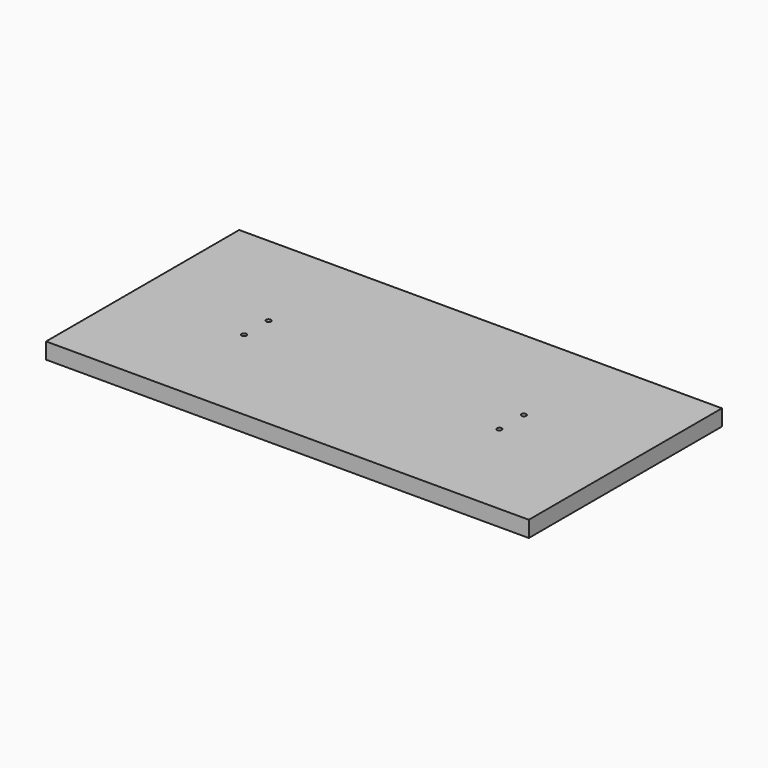
from build123d import *

# Parameters (mm, degrees)
SKETCH_W     = 300
SKETCH_H     = 150
PAD_DEPTH    = 10
SKETCH001_R  = 1.5
POCKET_DEPTH = 100


with BuildPart() as part:
    # Sketch → Pad (new body)
    with BuildSketch(Plane.XY):
        Rectangle(SKETCH_W, SKETCH_H)
    extrude(amount=-PAD_DEPTH)

    # Sketch001 (on Face5 of Pad) → Pocket (cut)
    with BuildSketch(Plane.XY):
        with Locations((79.33, 9.5)):
            Circle(SKETCH001_R)
        with Locations((79.33, -9.5)):
            Circle(SKETCH001_R)
        with Locations((-79.33, -9.5)):
            Circle(SKETCH001_R)
        with Locations((-79.33, 9.5)):
            Circle(SKETCH001_R)
    extrude(amount=-POCKET_DEPTH, mode=Mode.SUBTRACT)


solid = part.part
